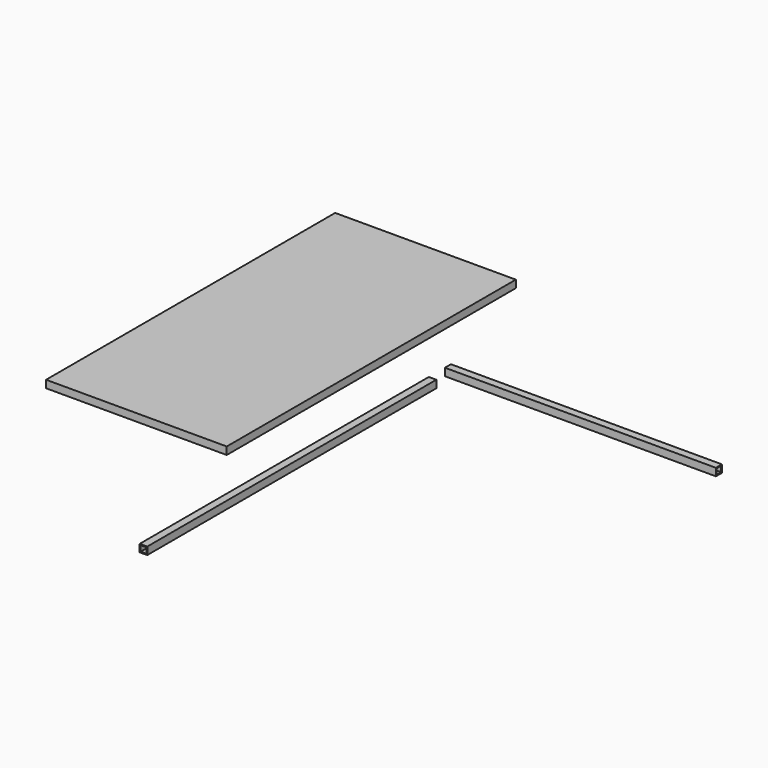
from build123d import *

# Parameters (mm, degrees)
F0_W      = 101.6
F0_H      = 19.05
F2_DEPTH  = 609.6
F1_W      = 101.6
F1_H      = 19.05
F3_DEPTH  = 1219.2
F5_W      = 609.6
F5_H      = 1219.2
F6_DEPTH  = 25.4
F7_W      = 25.4
F7_H      = 25.4
F7_W_2    = 19.05
F7_H_2    = 19.05
F8_DEPTH  = 1219.2
F9_W      = 25.4
F9_H      = 25.4
F9_W_2    = 19.05
F9_H_2    = 19.05
F10_DEPTH = 914.4


with BuildPart() as f2:
    # F0 (on Right) → F2 (new body)
    with BuildSketch(Plane.YZ):
        with Locations((-79.195688796, -22.0583576024)):
            Rectangle(F0_W, F0_H)
    extrude(amount=-F2_DEPTH)


with BuildPart() as f3:
    # F1 (on Front) → F3 (new body)
    with BuildSketch(Plane.XZ):
        with Locations((95.3139266978, 31.5791172907)):
            Rectangle(F1_W, F1_H)
    extrude(amount=-F3_DEPTH)


with BuildPart() as f6:
    # F5 (on Top) → F6 (new body)
    with BuildSketch(Plane.XY):
        with Locations((-503.359906985, -46.8117073178)):
            Rectangle(F5_W, F5_H)
    extrude(amount=-F6_DEPTH)


with BuildPart() as f8:
    # F7 (on Front) → F8 (new body)
    with BuildSketch(Plane.XZ):
        with Locations((-29.1747529991, -22.0307169825)):
            Rectangle(F7_W, F7_H)
        with Locations((-29.1747529991, -22.0307169825)):
            Rectangle(F7_W_2, F7_H_2, mode=Mode.SUBTRACT)
    extrude(amount=F8_DEPTH)


with BuildPart() as f10:
    # F9 (on Right) → F10 (new body)
    with BuildSketch(Plane.YZ):
        with Locations((28.2520343765, 12.7)):
            Rectangle(F9_W, F9_H)
        with Locations((28.2520343765, 12.7)):
            Rectangle(F9_W_2, F9_H_2, mode=Mode.SUBTRACT)
    extrude(amount=F10_DEPTH)


solid = Compound([f6.part, f8.part, f10.part])
